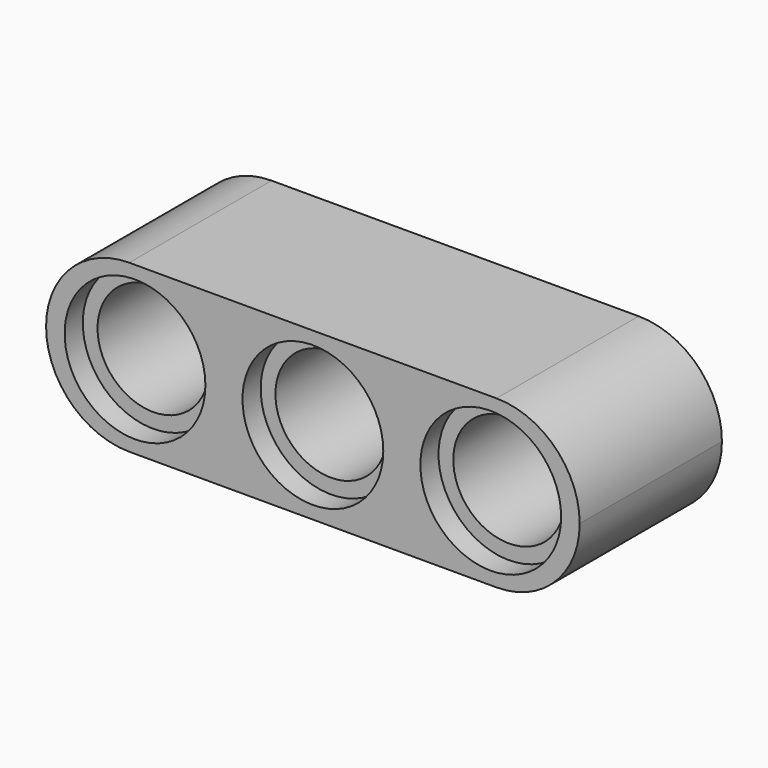
from build123d import *

# Parameters (mm, degrees)
F0_R     = 2.45
F1_DEPTH = 7.83
F2_DEPTH = 1
F3_R     = 3.1
F3_R_2   = 2.45
F4_DEPTH = 1


with BuildPart() as f1:
    # F0 (on Front) → F1 (new body)
    with BuildSketch(Plane.XZ):
        with BuildLine():
            ThreePointArc((0, 3.665), (1.073454, 1.073454), (3.665, 0))
            Line((3.665, 0), (19.835, 0))
            ThreePointArc((19.835, 0), (22.426546, 1.073454), (23.5, 3.665))
            ThreePointArc((23.5, 3.665), (22.426546, 6.256546), (19.835, 7.33))
            Line((19.835, 7.33), (15.666667, 7.33))
            Line((15.666667, 7.33), (7.833667, 7.33))
            Line((7.833667, 7.33), (3.665, 7.33))
            ThreePointArc((3.665, 7.33), (1.073454, 6.256546), (0, 3.665))
        make_face()
        with BuildLine():
            ThreePointArc((10.166571, 1), (8.650167, 3.665), (10.166571, 6.33))
            ThreePointArc((10.166571, 6.33), (11.750167, 6.765), (13.333762, 6.33))
            ThreePointArc((13.333762, 6.33), (14.850167, 3.665), (13.333762, 1))
            ThreePointArc((13.333762, 1), (11.750167, 0.565), (10.166571, 1))
        make_face(mode=Mode.SUBTRACT)
        with BuildLine():
            ThreePointArc((17.999738, 1), (16.483333, 3.665), (17.999738, 6.33))
            ThreePointArc((17.999738, 6.33), (22.683333, 3.665), (17.999738, 1))
        make_face(mode=Mode.SUBTRACT)
        with BuildLine():
            ThreePointArc((5.500429, 1), (0.816833, 3.665), (5.500429, 6.33))
            ThreePointArc((5.500429, 6.33), (7.016833, 3.665), (5.500429, 1))
        make_face(mode=Mode.SUBTRACT)
        with BuildLine():
            ThreePointArc((5.500429, 1), (7.016833, 3.665), (5.500429, 6.33))
            ThreePointArc((5.500429, 6.33), (0.816833, 3.665), (5.500429, 1))
        make_face()
        with Locations((3.916833, 3.665)):
            Circle(F0_R, mode=Mode.SUBTRACT)
        with BuildLine():
            ThreePointArc((13.333762, 6.33), (11.750167, 6.765), (10.166571, 6.33))
            ThreePointArc((10.166571, 6.33), (8.650167, 3.665), (10.166571, 1))
            ThreePointArc((10.166571, 1), (11.750167, 0.565), (13.333762, 1))
            ThreePointArc((13.333762, 1), (14.850167, 3.665), (13.333762, 6.33))
        make_face()
        with Locations((11.750167, 3.665)):
            Circle(F0_R, mode=Mode.SUBTRACT)
        with BuildLine():
            ThreePointArc((17.999738, 1), (22.683333, 3.665), (17.999738, 6.33))
            ThreePointArc((17.999738, 6.33), (16.483333, 3.665), (17.999738, 1))
        make_face()
        with Locations((19.583333, 3.665)):
            Circle(F0_R, mode=Mode.SUBTRACT)
    extrude(amount=F1_DEPTH)

    # F0 (on Front) → F2 (cut)
    with BuildSketch(Plane.XZ):
        with BuildLine():
            ThreePointArc((5.500429, 1), (7.016833, 3.665), (5.500429, 6.33))
            ThreePointArc((5.500429, 6.33), (0.816833, 3.665), (5.500429, 1))
        make_face()
        with Locations((3.916833, 3.665)):
            Circle(F0_R, mode=Mode.SUBTRACT)
        with BuildLine():
            ThreePointArc((13.333762, 6.33), (11.750167, 6.765), (10.166571, 6.33))
            ThreePointArc((10.166571, 6.33), (8.650167, 3.665), (10.166571, 1))
            ThreePointArc((10.166571, 1), (11.750167, 0.565), (13.333762, 1))
            ThreePointArc((13.333762, 1), (14.850167, 3.665), (13.333762, 6.33))
        make_face()
        with Locations((11.750167, 3.665)):
            Circle(F0_R, mode=Mode.SUBTRACT)
        with BuildLine():
            ThreePointArc((17.999738, 1), (22.683333, 3.665), (17.999738, 6.33))
            ThreePointArc((17.999738, 6.33), (16.483333, 3.665), (17.999738, 1))
        make_face()
        with Locations((19.583333, 3.665)):
            Circle(F0_R, mode=Mode.SUBTRACT)
    extrude(amount=F2_DEPTH, mode=Mode.SUBTRACT)

    # F3 (on face) → F4 (cut)
    with BuildSketch(Plane.XZ.offset(7.83)):
        with Locations((3.916833, 3.665)):
            Circle(F3_R)
        with Locations((3.916833, 3.665)):
            Circle(F3_R_2, mode=Mode.SUBTRACT)
        with Locations((11.750167, 3.665)):
            Circle(F3_R)
        with Locations((11.750167, 3.665)):
            Circle(F3_R_2, mode=Mode.SUBTRACT)
        with Locations((19.583333, 3.665)):
            Circle(F3_R)
        with Locations((19.583333, 3.665)):
            Circle(F3_R_2, mode=Mode.SUBTRACT)
    extrude(amount=-F4_DEPTH, mode=Mode.SUBTRACT)


solid = f1.part
